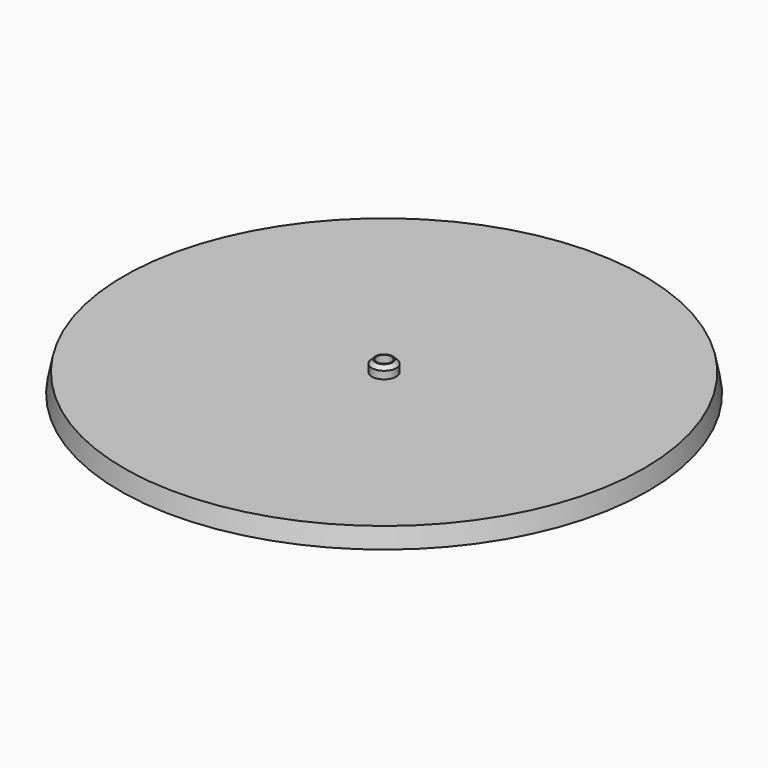
from build123d import *

# Parameters (mm, degrees)
CYLINDER002_R     = 0.4
CYLINDER002_DEPTH = 0.6
CYLINDER001_R     = 0.65
CYLINDER001_DEPTH = 0.6
CHAMFER_SIZE      = 0.2
CYLINDER_R        = 0.4
CYLINDER_DEPTH    = 1
FILLET_R          = 0.8


with BuildPart() as cylinder002:
    # Cylinder002 → Cylinder002 (new body)
    with BuildSketch(Plane.XY.offset(1)):
        Circle(CYLINDER002_R)
    extrude(amount=CYLINDER002_DEPTH)


with BuildPart() as chamfer_body:
    # Cylinder001 → Cylinder001 (new body)
    with BuildSketch(Plane.XY.offset(1)):
        Circle(CYLINDER001_R)
    extrude(amount=CYLINDER001_DEPTH)

    # Cut001: cut Cylinder002
    add(cylinder002.part, mode=Mode.SUBTRACT)

    # Chamfer
    chamfer_edges = [chamfer_body.edges().sort_by_distance(p)[0] for p in [
        (-0.65, 0, 1.6),
    ]]
    chamfer(chamfer_edges, length=CHAMFER_SIZE)


with BuildPart() as cylinder:
    # Cylinder → Cylinder (new body)
    with BuildSketch(Plane.XY):
        Circle(CYLINDER_R)
    extrude(amount=CYLINDER_DEPTH)


with BuildPart() as fusion:
    # Cone → Cone (revolve)
    with BuildSketch(Plane.XZ):
        Polygon((0, 0), (14, 0), (13.8, 1), (0, 1), align=None)
    revolve(axis=Axis((0, 0, 0), (0, 0, 1)))

    # Cut: cut Cylinder
    add(cylinder.part, mode=Mode.SUBTRACT)

    # Fillet
    fillet_edges = [fusion.edges().sort_by_distance(p)[0] for p in [
        (-0.4, 0, 0),
    ]]
    fillet(fillet_edges, radius=FILLET_R)

    # Fusion: union Chamfer body
    add(chamfer_body.part)


solid = fusion.part
